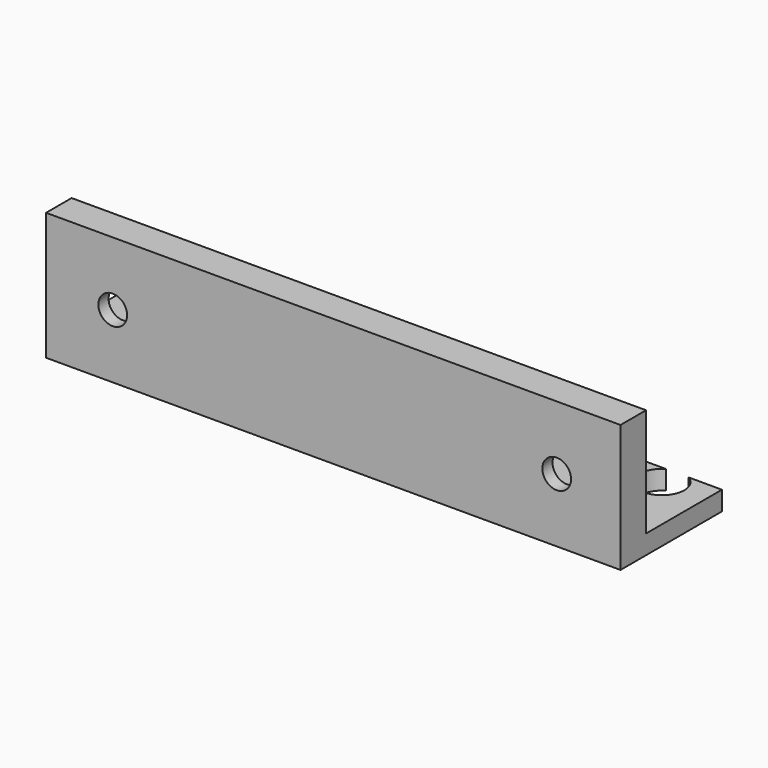
from build123d import *

# Parameters (mm, degrees)
F0_W     = 90
F0_H     = 5
F1_DEPTH = 20
F2_R     = 6.25
F2_R_2   = 2.25
F3_DEPTH = 3
F4_DEPTH = 25
F5_DEPTH = 3


with BuildPart() as f1:
    # F0 (on Top) → F1 (new body)
    with BuildSketch(Plane.XY):
        with Locations((45, -2.5)):
            Rectangle(F0_W, F0_H)
    extrude(amount=F1_DEPTH)

    # F2 (on face) → F3 (cut)
    with BuildSketch(Plane(origin=(0, 0, 0), x_dir=(-1, 0, 0), z_dir=(0, 1, 0))):
        with Locations((-10.4403868318, 10)):
            Circle(F2_R)
        with Locations((-10.4403868318, 10)):
            Circle(F2_R_2, mode=Mode.SUBTRACT)
        with Locations((-80, 10)):
            Circle(F2_R)
        with Locations((-80, 10)):
            Circle(F2_R_2, mode=Mode.SUBTRACT)
    extrude(amount=-F3_DEPTH, mode=Mode.SUBTRACT)

    # F4 (cut): faces of the model
    f4_faces = [f1.faces().sort_by_distance(p)[0] for p in [
        (80, 0, 10),
        (10.4403868318, 0, 10),
    ]]
    extrude(f4_faces, amount=-F4_DEPTH, mode=Mode.SUBTRACT)

    # F0 (on Top) → F5 (join)
    with BuildSketch(Plane.XY):
        with BuildLine():
            Line((0, 13), (0, 0))
            Line((0, 0), (90, 0))
            Line((90, 0), (90, 11.8577008211))
            Line((90, 11.8577008211), (90, 14.8577008211))
            Line((90, 14.8577008211), (84.7905250274, 14.8650285595))
            ThreePointArc((84.7905250274, 14.8650285595), (82.9950768438, 8.3577042836), (81.2179423605, 14.8700538166))
            Line((81.2179423605, 14.8700538166), (74.7666283432, 14.8791283475))
            ThreePointArc((74.7666283432, 14.8791283475), (72.9950768438, 8.3577042836), (71.2418786162, 14.8840863219))
            Line((71.2418786162, 14.8840863219), (64.7422887653, 14.8932287584))
            ThreePointArc((64.7422887653, 14.8932287584), (62.9950768438, 8.3577042836), (61.2662577654, 14.8981182043))
            Line((61.2662577654, 14.8981182043), (54.7174874018, 14.9073298189))
            ThreePointArc((54.7174874018, 14.9073298189), (52.9950768438, 8.3577042836), (51.2910987002, 14.9121494371))
            Line((51.2910987002, 14.9121494371), (44.6922038807, 14.9214315577))
            ThreePointArc((44.6922038807, 14.9214315577), (42.99446615, 8.3577051959), (41.3174926972, 14.9267673202))
            Line((41.3174926972, 14.9267673202), (35.1435817461, 14.9377101925))
            ThreePointArc((35.1435817461, 14.9377101925), (33.9960120215, 10.7500035342), (32.8632943585, 14.9417518597))
            Line((32.8632943585, 14.9417518597), (28.1222277254, 14.9501551047))
            ThreePointArc((28.1222277254, 14.9501551047), (26.9960120215, 10.7500035342), (25.8846923606, 14.9541209966))
            Line((25.8846923606, 14.9541209966), (21.1003169088, 14.9626010038))
            ThreePointArc((21.1003169088, 14.9626010038), (19.9960120215, 10.7500035342), (18.9066471585, 14.9664891467))
            Line((18.9066471585, 14.9664891467), (14.0778151948, 14.9750479503))
            ThreePointArc((14.0778151948, 14.9750479503), (12.9960120215, 10.7500035342), (11.9291928539, 14.9788562494))
            Line((11.9291928539, 14.9788562494), (7.0546845996, 14.9874960114))
            ThreePointArc((7.0546845996, 14.9874960114), (5.9960120215, 10.7500035342), (4.9523674304, 14.9912222375))
            Line((4.9523674304, 14.9912222375), (0, 15))
            Line((0, 15), (0, 13))
        make_face()
    extrude(amount=F5_DEPTH)


solid = f1.part
